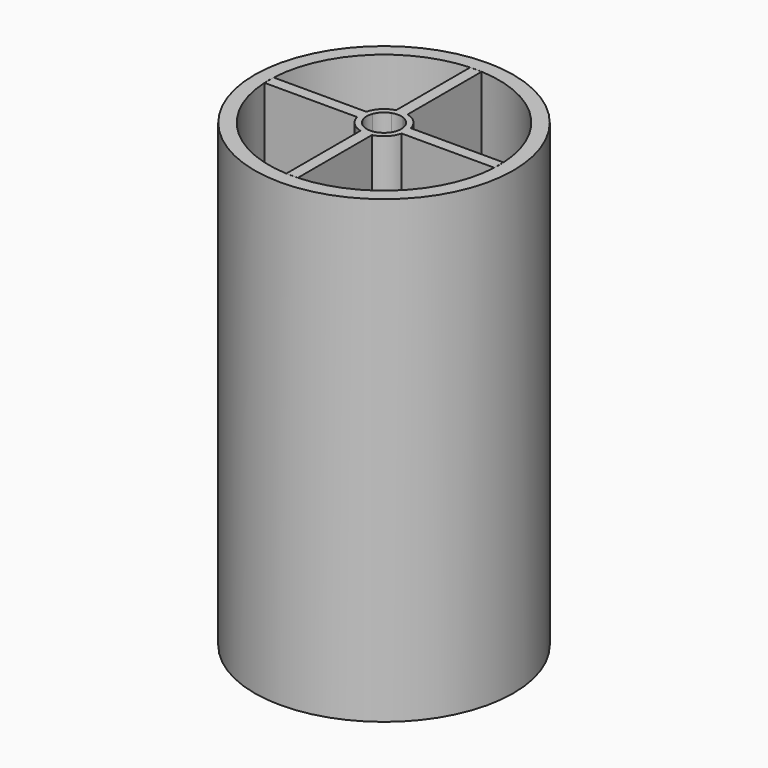
from build123d import *

# Parameters (mm, degrees)
F0_R     = 28.575
F1_DEPTH = 101.6
F2_DEPTH = 101.6
F3_DEPTH = 6.35


with BuildPart() as f1:
    # F0 (on Top) → F1 (new body)
    with BuildSketch(Plane.XY):
        Circle(F0_R)
        with BuildLine():
            ThreePointArc((25.3682301314, 1.27), (25.3920562907, 0.6351986549), (25.4, 0))
            ThreePointArc((25.4, 0), (25.3920562907, -0.6351986549), (25.3682301314, -1.27))
            ThreePointArc((25.3682301314, -1.27), (17.9605122421, -17.9605122421), (1.27, -25.3682301314))
            ThreePointArc((1.27, -25.3682301314), (0, -25.4), (-1.27, -25.3682301314))
            ThreePointArc((-1.27, -25.3682301314), (-17.9605122421, -17.9605122421), (-25.3682301314, -1.27))
            ThreePointArc((-25.3682301314, -1.27), (-25.4, 0), (-25.3682301314, 1.27))
            ThreePointArc((-25.3682301314, 1.27), (-17.9605122421, 17.9605122421), (-1.27, 25.3682301314))
            ThreePointArc((-1.27, 25.3682301314), (0, 25.4), (1.27, 25.3682301314))
            ThreePointArc((1.27, 25.3682301314), (17.9605122421, 17.9605122421), (25.3682301314, 1.27))
        make_face(mode=Mode.SUBTRACT)
    extrude(amount=F1_DEPTH)


with BuildPart() as f2:
    # F0 (on Top) → F2 (new body)
    with BuildSketch(Plane.XY):
        with BuildLine():
            Line((25.3682301314, -1.27), (25.3682301314, 1.27))
            Line((25.3682301314, 1.27), (4.9186888497, 1.27))
            ThreePointArc((4.9186888497, 1.27), (5.039510857, 0.6401018058), (5.08, 0))
            ThreePointArc((5.08, 0), (5.039510857, -0.6401018058), (4.9186888497, -1.27))
            Line((4.9186888497, -1.27), (25.3682301314, -1.27))
        make_face()
        with BuildLine():
            Line((-1.27, -25.3682301314), (1.27, -25.3682301314))
            Line((1.27, -25.3682301314), (1.27, -4.9186888497))
            ThreePointArc((1.27, -4.9186888497), (0, -5.08), (-1.27, -4.9186888497))
            Line((-1.27, -4.9186888497), (-1.27, -25.3682301314))
        make_face()
        with BuildLine():
            Line((-4.9186888497, 1.27), (-25.3682301314, 1.27))
            Line((-25.3682301314, 1.27), (-25.3682301314, -1.27))
            Line((-25.3682301314, -1.27), (-4.9186888497, -1.27))
            ThreePointArc((-4.9186888497, -1.27), (-5.08, 0), (-4.9186888497, 1.27))
        make_face()
        with BuildLine():
            Line((1.27, 4.9186888497), (1.27, 25.3682301314))
            Line((1.27, 25.3682301314), (-1.27, 25.3682301314))
            Line((-1.27, 25.3682301314), (-1.27, 4.9186888497))
            ThreePointArc((-1.27, 4.9186888497), (0, 5.08), (1.27, 4.9186888497))
        make_face()
        with BuildLine():
            ThreePointArc((1.27, -4.9186888497), (3.5921024484, -3.5921024484), (4.9186888497, -1.27))
            Line((4.9186888497, -1.27), (3.5921024484, -1.27))
            ThreePointArc((3.5921024484, -1.27), (2.6940768363, -2.6940768363), (1.27, -3.5921024484))
            Line((1.27, -3.5921024484), (1.27, -4.9186888497))
        make_face()
        with BuildLine():
            ThreePointArc((5.08, 0), (5.039510857, 0.6401018058), (4.9186888497, 1.27))
            Line((4.9186888497, 1.27), (3.5921024484, 1.27))
            ThreePointArc((3.5921024484, 1.27), (3.7551305123, 0.6442785389), (3.81, 0))
            ThreePointArc((3.81, 0), (3.7551305123, -0.6442785389), (3.5921024484, -1.27))
            Line((3.5921024484, -1.27), (4.9186888497, -1.27))
            ThreePointArc((4.9186888497, -1.27), (5.039510857, -0.6401018058), (5.08, 0))
        make_face()
        with BuildLine():
            Line((3.5921024484, 1.27), (4.9186888497, 1.27))
            ThreePointArc((4.9186888497, 1.27), (3.5921024484, 3.5921024484), (1.27, 4.9186888497))
            Line((1.27, 4.9186888497), (1.27, 3.5921024484))
            ThreePointArc((1.27, 3.5921024484), (2.6940768363, 2.6940768363), (3.5921024484, 1.27))
        make_face()
        with BuildLine():
            Line((1.27, 3.5921024484), (1.27, 4.9186888497))
            ThreePointArc((1.27, 4.9186888497), (0, 5.08), (-1.27, 4.9186888497))
            Line((-1.27, 4.9186888497), (-1.27, 3.5921024484))
            ThreePointArc((-1.27, 3.5921024484), (0, 3.81), (1.27, 3.5921024484))
        make_face()
        with BuildLine():
            Line((-1.27, 3.5921024484), (-1.27, 4.9186888497))
            ThreePointArc((-1.27, 4.9186888497), (-3.5921024484, 3.5921024484), (-4.9186888497, 1.27))
            Line((-4.9186888497, 1.27), (-3.5921024484, 1.27))
            ThreePointArc((-3.5921024484, 1.27), (-2.6940768363, 2.6940768363), (-1.27, 3.5921024484))
        make_face()
        with BuildLine():
            Line((-3.5921024484, 1.27), (-4.9186888497, 1.27))
            ThreePointArc((-4.9186888497, 1.27), (-5.08, 0), (-4.9186888497, -1.27))
            Line((-4.9186888497, -1.27), (-3.5921024484, -1.27))
            ThreePointArc((-3.5921024484, -1.27), (-3.81, 0), (-3.5921024484, 1.27))
        make_face()
        with BuildLine():
            ThreePointArc((-4.9186888497, -1.27), (-3.5921024484, -3.5921024484), (-1.27, -4.9186888497))
            Line((-1.27, -4.9186888497), (-1.27, -3.5921024484))
            ThreePointArc((-1.27, -3.5921024484), (-2.6940768363, -2.6940768363), (-3.5921024484, -1.27))
            Line((-3.5921024484, -1.27), (-4.9186888497, -1.27))
        make_face()
        with BuildLine():
            ThreePointArc((-1.27, -4.9186888497), (0, -5.08), (1.27, -4.9186888497))
            Line((1.27, -4.9186888497), (1.27, -3.5921024484))
            ThreePointArc((1.27, -3.5921024484), (0, -3.81), (-1.27, -3.5921024484))
            Line((-1.27, -3.5921024484), (-1.27, -4.9186888497))
        make_face()
    extrude(amount=F2_DEPTH)


with BuildPart() as f3:
    # F0 (on Top) → F3 (new body)
    with BuildSketch(Plane.XY):
        with BuildLine():
            Line((4.9186888497, 1.27), (25.3682301314, 1.27))
            ThreePointArc((25.3682301314, 1.27), (17.9605122421, 17.9605122421), (1.27, 25.3682301314))
            Line((1.27, 25.3682301314), (1.27, 4.9186888497))
            ThreePointArc((1.27, 4.9186888497), (3.5921024484, 3.5921024484), (4.9186888497, 1.27))
        make_face()
    extrude(amount=F3_DEPTH)


with BuildPart() as f3b:
    # F0 (on Top) → F3, piece 2 (new body)
    with BuildSketch(Plane.XY):
        with BuildLine():
            Line((-1.27, 4.9186888497), (-1.27, 25.3682301314))
            ThreePointArc((-1.27, 25.3682301314), (-17.9605122421, 17.9605122421), (-25.3682301314, 1.27))
            Line((-25.3682301314, 1.27), (-4.9186888497, 1.27))
            ThreePointArc((-4.9186888497, 1.27), (-3.5921024484, 3.5921024484), (-1.27, 4.9186888497))
        make_face()
    extrude(amount=F3_DEPTH)


with BuildPart() as f3c:
    # F0 (on Top) → F3, piece 3 (new body)
    with BuildSketch(Plane.XY):
        with BuildLine():
            ThreePointArc((-25.3682301314, -1.27), (-17.9605122421, -17.9605122421), (-1.27, -25.3682301314))
            Line((-1.27, -25.3682301314), (-1.27, -4.9186888497))
            ThreePointArc((-1.27, -4.9186888497), (-3.5921024484, -3.5921024484), (-4.9186888497, -1.27))
            Line((-4.9186888497, -1.27), (-25.3682301314, -1.27))
        make_face()
    extrude(amount=F3_DEPTH)


with BuildPart() as f3d:
    # F0 (on Top) → F3, piece 4 (new body)
    with BuildSketch(Plane.XY):
        with BuildLine():
            ThreePointArc((1.27, -25.3682301314), (17.9605122421, -17.9605122421), (25.3682301314, -1.27))
            Line((25.3682301314, -1.27), (4.9186888497, -1.27))
            ThreePointArc((4.9186888497, -1.27), (3.5921024484, -3.5921024484), (1.27, -4.9186888497))
            Line((1.27, -4.9186888497), (1.27, -25.3682301314))
        make_face()
    extrude(amount=F3_DEPTH)


solid = Compound([f1.part, f2.part, f3.part, f3b.part, f3c.part, f3d.part])
